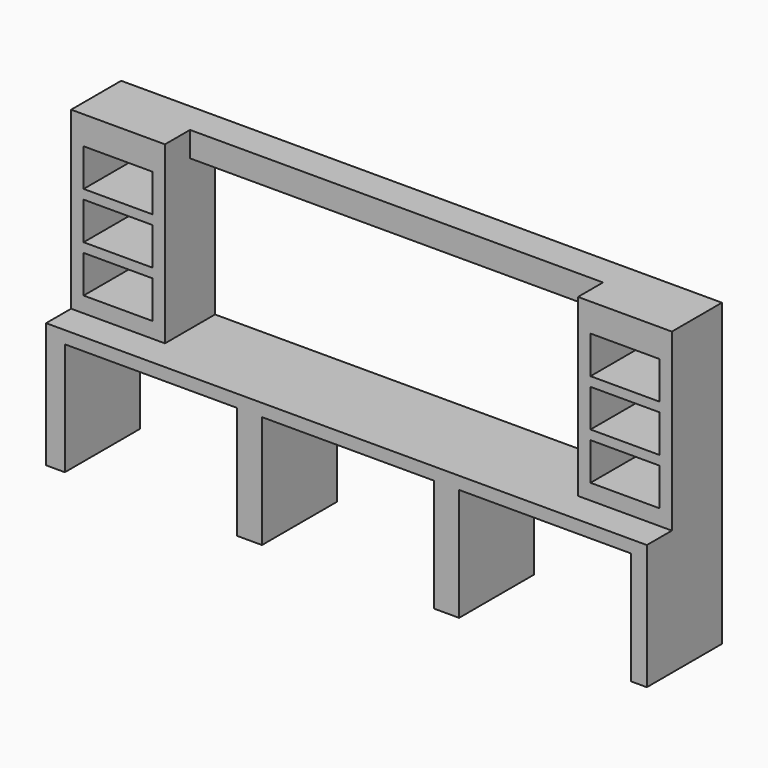
from build123d import *

# Parameters (mm, degrees)
F0_W     = 4876.8
F0_H     = 1016
F1_DEPTH = 762
F2_W     = 762
F2_H     = 1422.4
F3_DEPTH = 508
F4_W     = 3352.8
F4_H     = 203.2
F5_DEPTH = 254
F6_W     = 1397
F6_H     = 914.4
F7_DEPTH = 762
F8_W     = 558.8
F8_H     = 304.8
F9_DEPTH = 508


with BuildPart() as f1:
    # F0 (on Front) → F1 (new body)
    with BuildSketch(Plane.XZ):
        with Locations((2438.4, 508)):
            Rectangle(F0_W, F0_H)
    extrude(amount=F1_DEPTH)

    # F2 (on face) → F3 (join)
    with BuildSketch(Plane(origin=(0, 0, 0), x_dir=(-1, 0, 0), z_dir=(0, 1, 0))):
        with Locations((-381, 1727.2)):
            Rectangle(F2_W, F2_H)
        with Locations((-4495.8, 1727.2)):
            Rectangle(F2_W, F2_H)
    extrude(amount=-F3_DEPTH)

    # F4 (on face) → F5 (join)
    with BuildSketch(Plane(origin=(0, 0, 0), x_dir=(-1, 0, 0), z_dir=(0, 1, 0))):
        with Locations((-2438.4, 2336.8)):
            Rectangle(F4_W, F4_H)
    extrude(amount=-F5_DEPTH)

    # F6 (on face) → F7 (cut, through all)
    with BuildSketch(Plane.XZ.offset(762)):
        with Locations((850.9, 457.2)):
            Rectangle(F6_W, F6_H)
        with Locations((2451.1, 457.2)):
            Rectangle(F6_W, F6_H)
        with Locations((4051.3, 457.2)):
            Rectangle(F6_W, F6_H)
    extrude(amount=-F7_DEPTH, mode=Mode.SUBTRACT)

    # F8 (on face) → F9 (cut, through all)
    with BuildSketch(Plane.XZ.offset(508)):
        with Locations((381, 1295.4)):
            Rectangle(F8_W, F8_H)
        with Locations((381, 1676.4)):
            Rectangle(F8_W, F8_H)
        with Locations((381, 2057.4)):
            Rectangle(F8_W, F8_H)
        with Locations((4495.8, 1295.4)):
            Rectangle(F8_W, F8_H)
        with Locations((4495.8, 2057.4)):
            Rectangle(F8_W, F8_H)
        with Locations((4495.8, 1676.4)):
            Rectangle(F8_W, F8_H)
    extrude(amount=-F9_DEPTH, mode=Mode.SUBTRACT)


solid = f1.part
